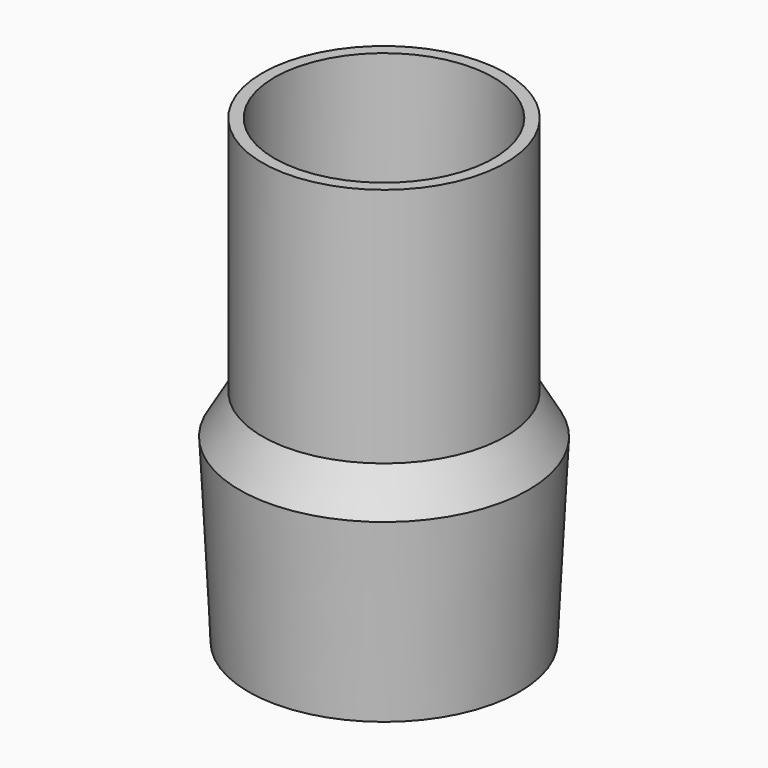
from build123d import *

# Parameters (mm, degrees)
F2_T = -2.54


with BuildPart() as f1:
    # F0 (on Front) → F1 (revolve)
    with BuildSketch(Plane.XZ):
        Polygon((-30.48, -35.8190238476), (-28.575, -73.9190238476), (0, -73.9190238476), (0, 23.3398533497), (-25.654, 23.3398533497), (-25.654, -27.4601466503), align=None)
    revolve(axis=Axis((0, 0, -25.2895852489), (0, 0, -1)))

    # F2
    f2_openings = [f1.faces().sort_by_distance(p)[0] for p in [
        (0, 0, 23.339853),
        (0, 0, -73.919024),
    ]]
    offset(amount=F2_T, openings=f2_openings, kind=Kind.INTERSECTION)


solid = f1.part
